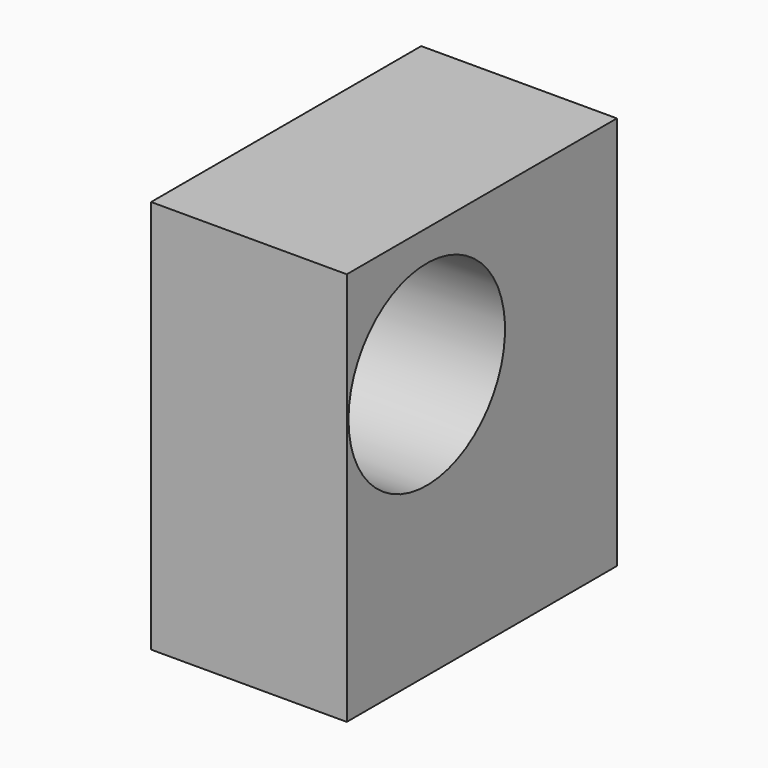
from build123d import *

# Parameters (mm, degrees)
F0_W     = 131.490365
F0_H     = 153.458938
F1_DEPTH = 76.2
F3_D     = 76.2


with BuildPart() as f1:
    # F0 (on Right) → F1 (new body)
    with BuildSketch(Plane.YZ):
        with Locations((65.745182, -76.729469)):
            Rectangle(F0_W, F0_H)
    extrude(amount=F1_DEPTH)

    # F3 (through all)
    with Locations(Plane.YZ.offset(76.2)):
        with Locations((38.928404, -50.156411)):
            Hole(F3_D / 2)


solid = f1.part
